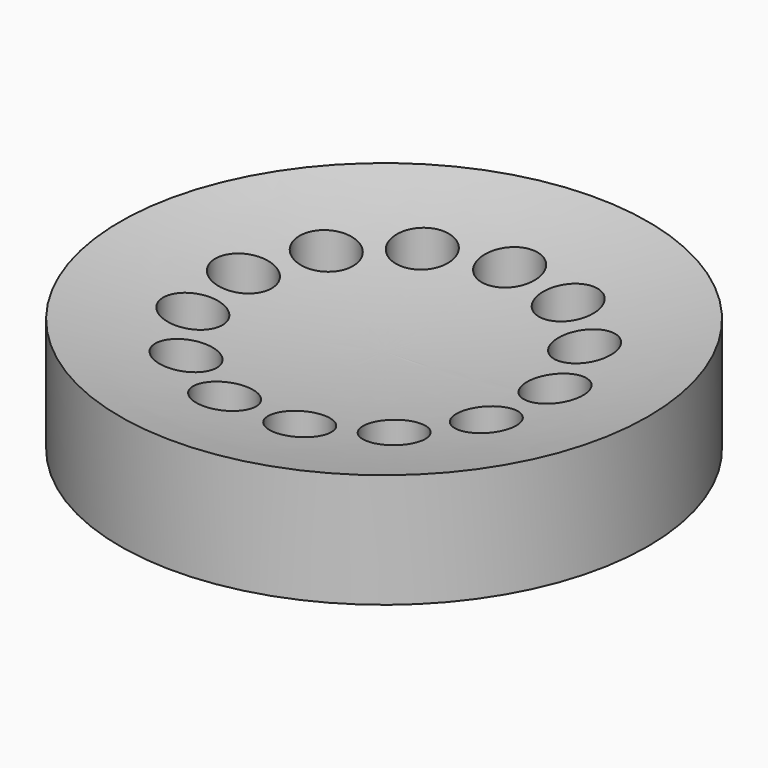
from build123d import *

# Parameters (mm, degrees)
F0_R     = 9.25
F0_R_2   = 1
F1_DEPTH = 4


with BuildPart() as f1:
    # F0 (on Top) → F1 (new body)
    with BuildSketch(Plane.XY):
        Circle(F0_R)
        with Locations((-1.316236, -5.34018)):
            Circle(F0_R_2, mode=Mode.SUBTRACT)
        with Locations((-5.142589, -1.950327)):
            Circle(F0_R_2, mode=Mode.SUBTRACT)
        with Locations((-3.647175, -4.116809)):
            Circle(F0_R_2, mode=Mode.SUBTRACT)
        with Locations((1.316236, -5.34018)):
            Circle(F0_R_2, mode=Mode.SUBTRACT)
        with Locations((3.647175, -4.116809)):
            Circle(F0_R_2, mode=Mode.SUBTRACT)
        with Locations((5.142589, -1.950327)):
            Circle(F0_R_2, mode=Mode.SUBTRACT)
        with Locations((-5.459899, 0.662952)):
            Circle(F0_R_2, mode=Mode.SUBTRACT)
        with Locations((-4.526411, 3.124356)):
            Circle(F0_R_2, mode=Mode.SUBTRACT)
        with Locations((-2.555977, 4.870008)):
            Circle(F0_R_2, mode=Mode.SUBTRACT)
        with Locations((4.526411, 3.124356)):
            Circle(F0_R_2, mode=Mode.SUBTRACT)
        with Locations((5.459899, 0.662952)):
            Circle(F0_R_2, mode=Mode.SUBTRACT)
        with Locations((0, 5.5)):
            Circle(F0_R_2, mode=Mode.SUBTRACT)
        with Locations((2.555977, 4.870008)):
            Circle(F0_R_2, mode=Mode.SUBTRACT)
    extrude(amount=F1_DEPTH)

    # F2 (on Front) → F3 (revolve, cut)
    with BuildSketch(Plane.XZ):
        with BuildLine():
            Line((9.25, 4), (0, 4))
            Line((0, 4), (0, 3))
            ThreePointArc((0, 3), (4.651949, 3.250726), (9.25, 4))
        make_face()
    revolve(axis=Axis((0, 0, 0), (0, 0, -1)), mode=Mode.SUBTRACT)


solid = f1.part
